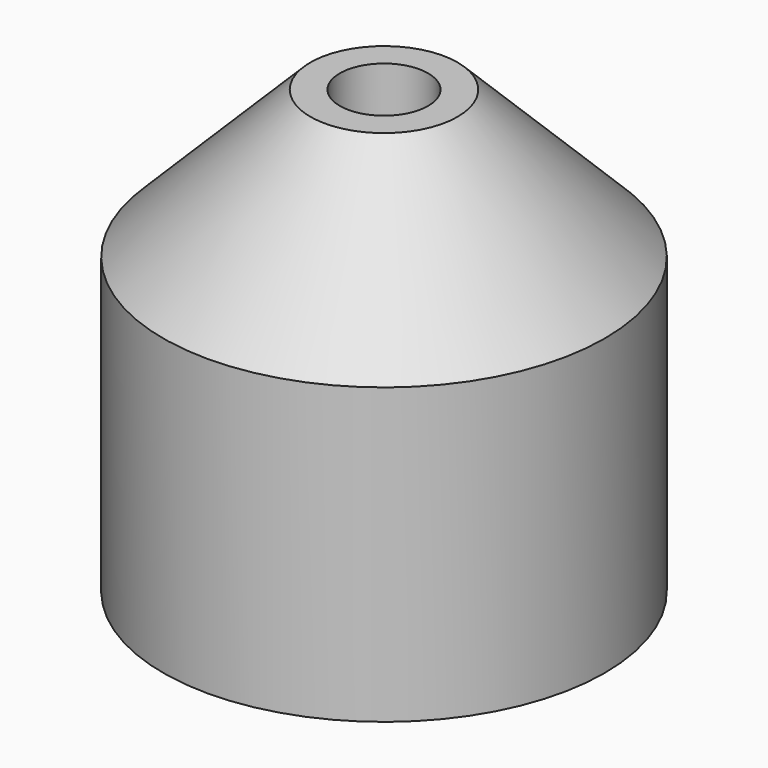
from build123d import *

# Parameters (mm, degrees)
F0_R     = 7.5
F0_R_2   = 1.5
F1_DEPTH = 15
F2_SIZE  = 5
F3_R     = 4
F4_DEPTH = 2


with BuildPart() as f1:
    # F0 (on Top) → F1 (new body)
    with BuildSketch(Plane.XY):
        Circle(F0_R)
        Circle(F0_R_2, mode=Mode.SUBTRACT)
    extrude(amount=F1_DEPTH)

    # F2
    f2_edges = [f1.edges().sort_by_distance(p)[0] for p in [
        (-7.5, 0, 15),
    ]]
    chamfer(f2_edges, length=F2_SIZE)

    # F3 (on face) → F4 (cut)
    with BuildSketch(Plane(origin=(0, 0, 0), x_dir=(1, 0, 0), z_dir=(0, 0, -1))):
        Circle(F3_R)
    extrude(amount=-F4_DEPTH, mode=Mode.SUBTRACT)


solid = f1.part
